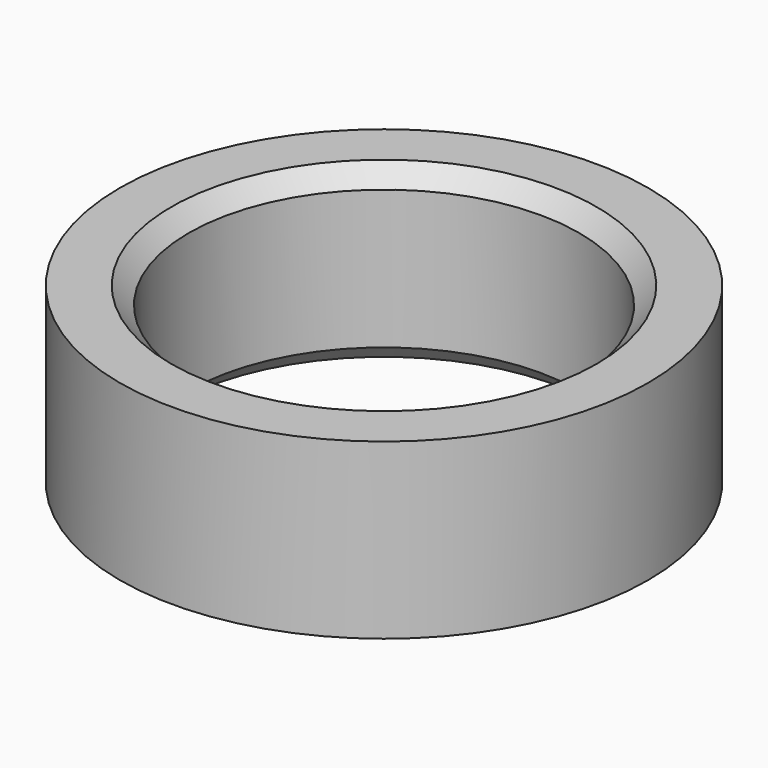
from build123d import *

# Parameters (mm, degrees)
F0_R     = 11.75
F0_R_2   = 11.25
F1_DEPTH = 10
F2_R     = 15.213548
F2_R_2   = 11.75
F3_DEPTH = 10
F4_SIZE  = 1
F5_SIZE  = 1


with BuildPart() as f1:
    # F0 (on Top) → F1 (new body)
    with BuildSketch(Plane.XY):
        Circle(F0_R)
        Circle(F0_R_2, mode=Mode.SUBTRACT)
    extrude(amount=-F1_DEPTH)

    # F2 (on Top) → F3 (join)
    with BuildSketch(Plane.XY):
        Circle(F2_R)
        Circle(F2_R_2, mode=Mode.SUBTRACT)
    extrude(amount=-F3_DEPTH)

    # F4
    f4_edges = [f1.edges().sort_by_distance(p)[0] for p in [
        (-11.25, 0, 0),
    ]]
    chamfer(f4_edges, length=F4_SIZE)

    # F5
    f5_edges = [f1.edges().sort_by_distance(p)[0] for p in [
        (-11.25, 0, -10),
    ]]
    chamfer(f5_edges, length=F5_SIZE)


solid = f1.part
